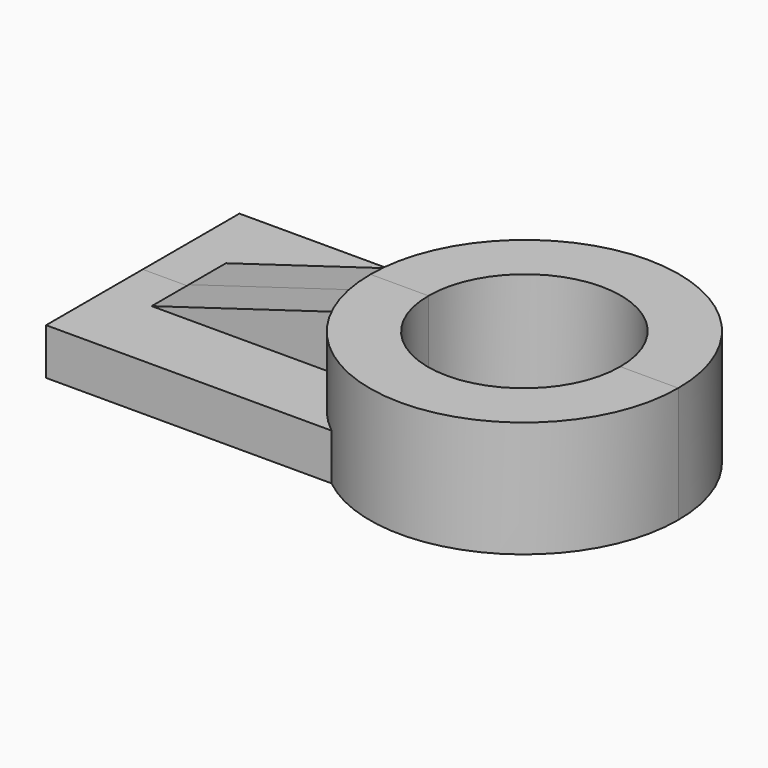
from build123d import *

# Parameters (mm, degrees)
F1_DEPTH = 25
F2_W     = 61.540648
F2_H     = 26.020542
F3_DEPTH = 10
F5_DEPTH = 10


with BuildPart() as f1:
    # F0 (on Top) → F1 (new body)
    with BuildSketch(Plane.XY):
        with BuildLine():
            Line((0, 0), (-12.5, 0))
            ThreePointArc((-12.5, 0), (20.639135, -33.29669), (53.77827, 0))
            Line((53.77827, 0), (41.27827, 0))
            ThreePointArc((41.27827, 0), (20.639135, -20.796916), (0, 0))
        make_face()
    extrude(amount=F1_DEPTH)

    # F2 (on Top) → F3 (join)
    with BuildSketch(Plane.XY):
        with Locations((-30.770324, -13.010271)):
            Rectangle(F2_W, F2_H)
    extrude(amount=F3_DEPTH)


with BuildPart() as f5:
    # F4 (on Front) → F5 (new body)
    with BuildSketch(Plane.XZ):
        Polygon((-51.628061, 10.325613), (-7.296763, 10.325613), (-7.296763, 23.530681), align=None)
    extrude(amount=F5_DEPTH)


with BuildPart() as f6_1:
    # F6: instance of F1
    add(f1.part.mirror(Plane.XZ))


with BuildPart() as f6_2:
    # F6: instance of F5
    add(f5.part.mirror(Plane.XZ))


solid = Compound([f1.part, f5.part, f6_1.part, f6_2.part])
